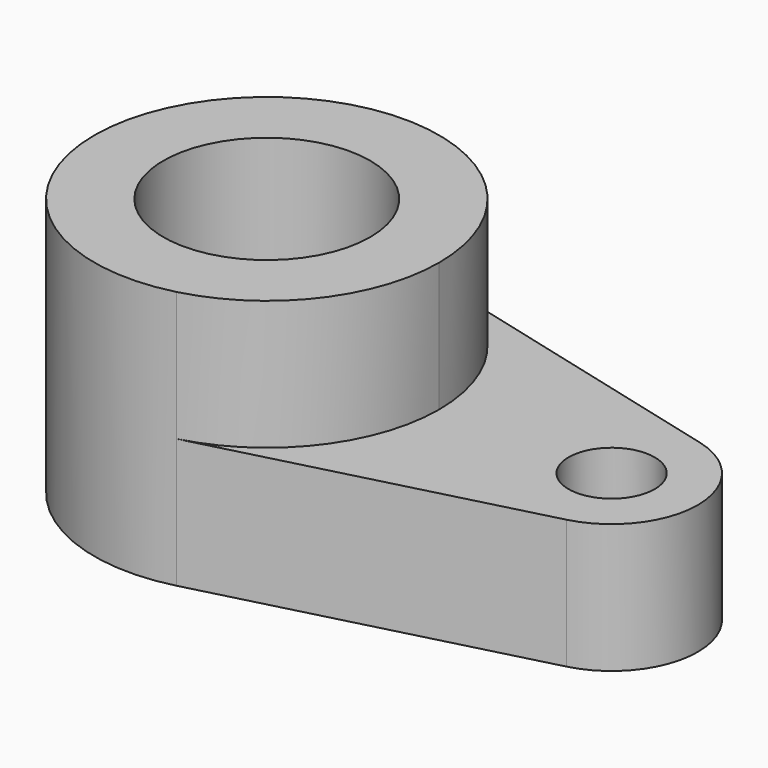
from build123d import *

# Parameters (mm, degrees)
F0_R     = 5
F1_DEPTH = 15
F0_R_2   = 12
F2_DEPTH = 30


with BuildPart() as f1:
    # F0 (on Top) → F1 (new body)
    with BuildSketch(Plane.XY):
        with BuildLine():
            ThreePointArc((5, 19.364917), (15.811388, 12.247449), (20, 0))
            ThreePointArc((20, 0), (15.811388, -12.247449), (5, -19.364917))
            Line((5, -19.364917), (42.5, -9.682458))
            ThreePointArc((42.5, -9.682458), (50, 0), (42.5, 9.682458))
            Line((42.5, 9.682458), (5, 19.364917))
        make_face()
        with Locations((40, 0)):
            Circle(F0_R, mode=Mode.SUBTRACT)
    extrude(amount=F1_DEPTH)

    # F0 (on Top) → F2 (join)
    with BuildSketch(Plane.XY):
        with BuildLine():
            ThreePointArc((5, -19.364917), (15.811388, -12.247449), (20, 0))
            ThreePointArc((20, 0), (15.811388, 12.247449), (5, 19.364917))
            ThreePointArc((5, 19.364917), (-20, 0), (5, -19.364917))
        make_face()
        Circle(F0_R_2, mode=Mode.SUBTRACT)
    extrude(amount=F2_DEPTH)


solid = f1.part
